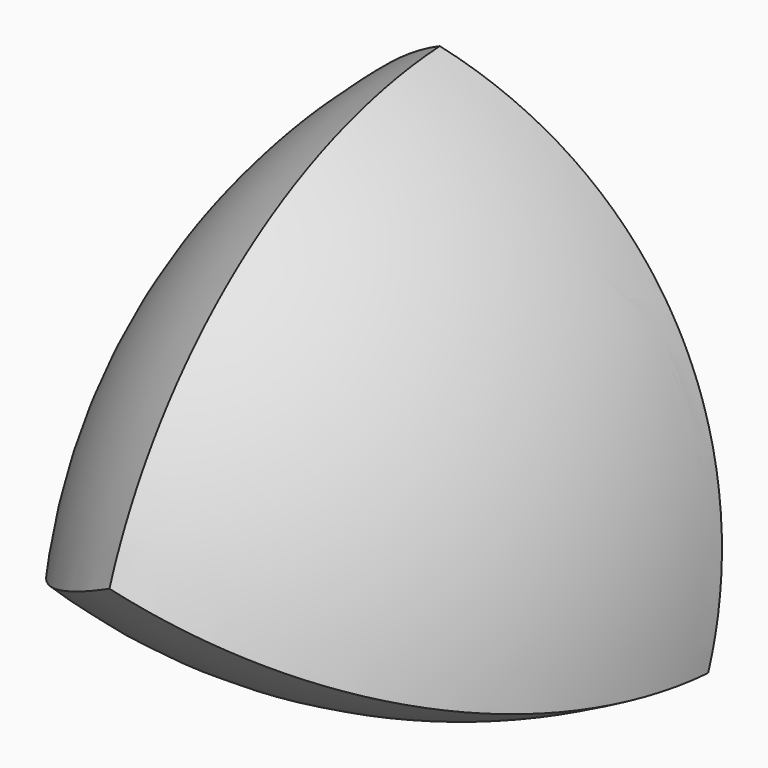
from build123d import *


with BuildPart() as f2:
    # F1 (on Front) → F2 (revolve)
    with BuildSketch(Plane.XZ):
        with BuildLine():
            Line((0, 78.8675134595), (0, -21.1324865405))
            ThreePointArc((0, -21.1324865405), (50, 28.8675134595), (0, 78.8675134595))
        make_face()
    revolve(axis=Axis((0, 0, 42.5087921321), (0, 0, 1)))


with BuildPart() as f4:
    # F3 (on Front) → F4 (revolve)
    with BuildSketch(Plane.XZ):
        with BuildLine():
            Line((18.3012701892, 10.5662432703), (-68.3012701892, -39.4337567297))
            ThreePointArc((-68.3012701892, -39.4337567297), (0, -57.735026919), (18.3012701892, 10.5662432703))
        make_face()
    revolve(axis=Axis((-48.7220736529, 0, -28.129702339), (-0.8660254038, 0, -0.5)))


with BuildPart() as f6:
    # F5 (on Front) → F6 (revolve)
    with BuildSketch(Plane.XZ):
        with BuildLine():
            Line((68.3012701892, -39.4337567297), (-18.3012701892, 10.5662432703))
            ThreePointArc((-18.3012701892, 10.5662432703), (0, -57.735026919), (68.3012701892, -39.4337567297))
        make_face()
    revolve(axis=Axis((48.6017106384, 0, -28.0602107202), (0.8660254038, 0, -0.5)))


with BuildPart() as f10:
    # F9 (on Top) → F10 (revolve)
    with BuildSketch(Plane.XY):
        with BuildLine():
            Line((0, -93.3012701892), (0, 6.6987298108))
            ThreePointArc((0, 6.6987298108), (-50, -43.3012701892), (0, -93.3012701892))
        make_face()
    revolve(axis=Axis((0, -54.9783110619, 0), (0, -1, 0)))


with BuildPart() as f2_1:
    add(f2.part)

    # F11: intersect F4, F6, F10
    add(f4.part, mode=Mode.INTERSECT)
    add(f6.part, mode=Mode.INTERSECT)
    add(f10.part, mode=Mode.INTERSECT)


solid = f2_1.part
